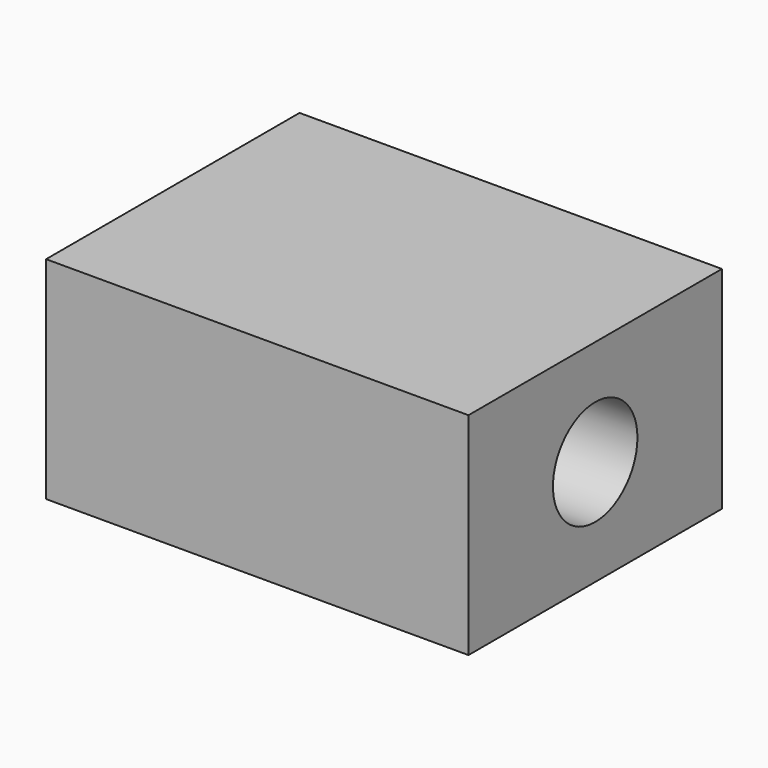
from build123d import *

# Parameters (mm, degrees)
F0_W     = 20
F0_H     = 10
F1_DEPTH = 15
F2_R     = 2.5
F3_DEPTH = 20.001


with BuildPart() as f1:
    # F0 (on Front) → F1 (new body)
    with BuildSketch(Plane.XZ):
        Rectangle(F0_W, F0_H)
    extrude(amount=F1_DEPTH)

    # F2 (on face) → F3 (cut, through all)
    with BuildSketch(Plane.YZ.offset(10)):
        with Locations((-7.5, 0)):
            Circle(F2_R)
    extrude(amount=-F3_DEPTH, mode=Mode.SUBTRACT)


solid = f1.part
